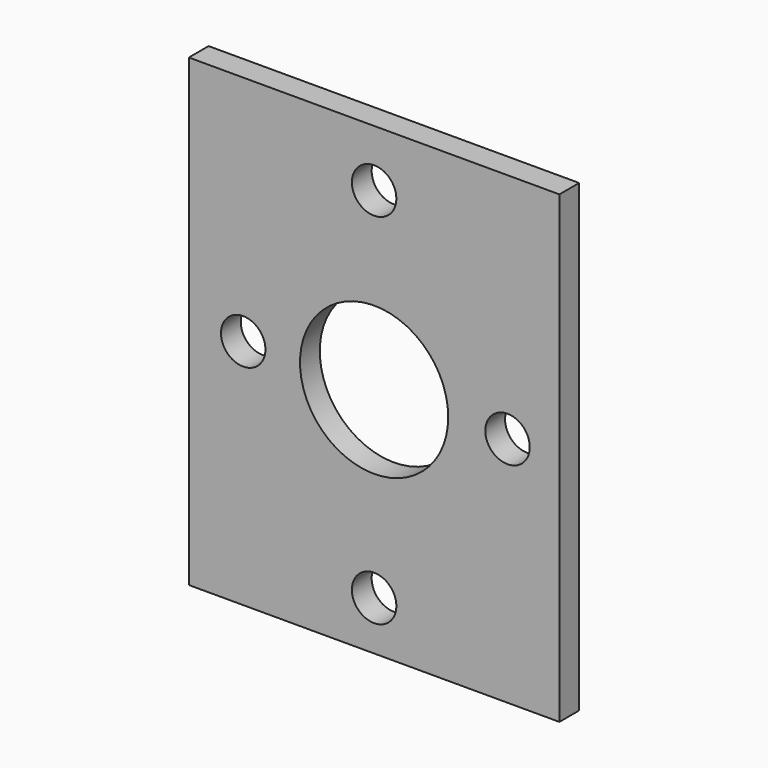
from build123d import *

# Parameters (mm, degrees)
F0_W     = 75
F0_H     = 94
F1_DEPTH = 5
F2_R     = 15
F2_R_2   = 4.5
F3_DEPTH = 5


with BuildPart() as f1:
    # F0 (on Front) → F1 (new body)
    with BuildSketch(Plane.XZ):
        Rectangle(F0_W, F0_H)
    extrude(amount=-F1_DEPTH)

    # F2 (on face) → F3 (cut, through all)
    with BuildSketch(Plane.XZ):
        Circle(F2_R)
        with Locations((0, 35.5)):
            Circle(F2_R_2)
        with Locations((-26.5, 0)):
            Circle(F2_R_2)
        with Locations((27, 0)):
            Circle(F2_R_2)
        with Locations((0, -37.1)):
            Circle(F2_R_2)
    extrude(amount=-F3_DEPTH, mode=Mode.SUBTRACT)


solid = f1.part
